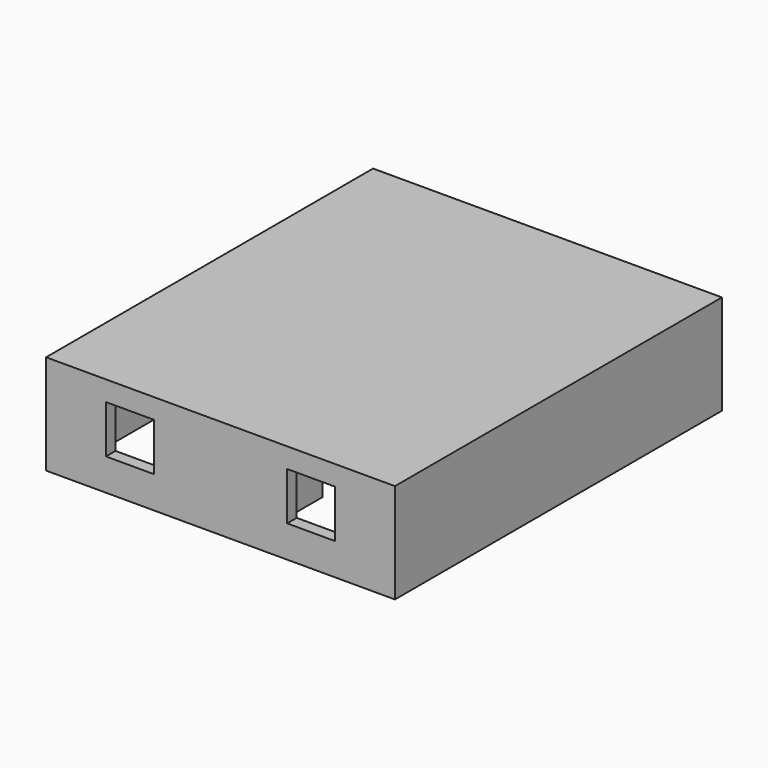
from build123d import *

# Parameters (mm, degrees)
F1_DEPTH = 2350
F2_W     = 8740
F2_H     = 10240
F3_DEPTH = 150
F4_W     = 1000
F4_H     = 1000
F4_W_2   = 1140
F4_H_2   = 1200
F5_DEPTH = 300
F6_W     = 1200
F6_H     = 1200
F7_DEPTH = 300


with BuildPart() as f1:
    # F0 (on Top) → F1 (new body)
    with BuildSketch(Plane.XY):
        Polygon((5859.900937, 3953.479228), (-2880.099063, 3953.479228), (-2880.099063, -246.520772), (-2580.099063, -246.520772), (-2580.099063, 153.479228), (744.900937, 153.479228), (744.900937, -246.520772), (1044.900937, -246.520772), (1044.900937, 1380.107756), (744.900937, 1380.107756), (744.900937, 328.479228), (-2580.099063, 328.479228), (-2580.099063, 3653.479228), (744.900937, 3653.479228), (744.900937, 2180.107756), (1044.900937, 2180.107756), (1044.900937, 2528.479228), (1144.900937, 2528.479228), (1144.900937, 2578.479228), (1044.900937, 2578.479228), (1044.900937, 3653.479228), (2244.900937, 3653.479228), (2244.900937, 2578.479228), (1844.900937, 2578.479228), (1844.900937, 2528.479228), (2244.900937, 2528.479228), (2244.900937, 2180.107756), (2419.900937, 2180.107756), (2419.900937, 3653.479228), (5559.900937, 3653.479228), (5559.900937, 763.479228), (2419.900937, 763.479228), (2419.900937, 1380.107756), (2244.900937, 1380.107756), (2244.900937, 588.479228), (5559.900937, 588.479228), (5559.900937, -1546.520772), (2549.900937, -1546.520772), (2549.900937, -311.520772), (2434.900937, -311.520772), (2434.900937, -1546.520772), (1044.900937, -1546.520772), (1044.900937, -1246.520772), (744.900937, -1246.520772), (744.900937, -1546.520772), (-72.599063, -1546.520772), (-72.599063, -1846.520772), (1869.900937, -1846.520772), (1869.900937, -2986.520772), (2044.900937, -2986.520772), (2044.900937, -1846.520772), (5559.900937, -1846.520772), (5559.900937, -5986.520772), (2044.900937, -5986.520772), (2044.900937, -3786.520772), (1869.900937, -3786.520772), (1869.900937, -5986.520772), (-2580.099063, -5986.520772), (-2580.099063, -1846.520772), (-872.599063, -1846.520772), (-872.599063, -1546.520772), (-2580.099063, -1546.520772), (-2580.099063, -1146.520772), (-2880.099063, -1146.520772), (-2880.099063, -6286.520772), (5859.900937, -6286.520772), align=None)
    extrude(amount=F1_DEPTH)

    # F2 (on face) → F3 (join)
    with BuildSketch(Plane.XY.offset(2350)):
        with Locations((1489.900937, -1166.520772)):
            Rectangle(F2_W, F2_H)
    extrude(amount=F3_DEPTH)

    # F4 (on face) → F5 (cut)
    with BuildSketch(Plane(origin=(-2880.099063, 0, 0), x_dir=(0, -1, 0), z_dir=(-1, 0, 0))):
        with Locations((-1753.479228, 1500)):
            Rectangle(F4_W, F4_H)
        with Locations((3716.520772, 1400)):
            Rectangle(F4_W_2, F4_H_2)
    extrude(amount=-F5_DEPTH, mode=Mode.SUBTRACT)

    # F6 (on face) → F7 (cut)
    with BuildSketch(Plane.XZ.offset(6286.520772)):
        with Locations((-780.099063, 1400)):
            Rectangle(F6_W, F6_H)
        with Locations((3759.900937, 1400)):
            Rectangle(F6_W, F6_H)
    extrude(amount=-F7_DEPTH, mode=Mode.SUBTRACT)


solid = f1.part
